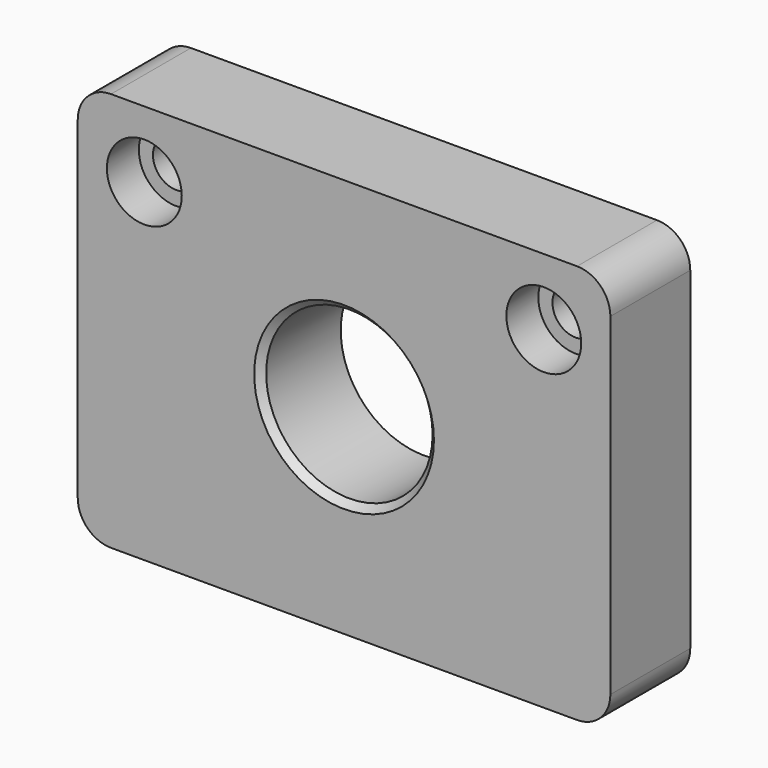
from build123d import *

# Parameters (mm, degrees)
F0_W           = 80
F0_H           = 60
F0_R           = 12.5
F1_DEPTH       = 15
F3_D           = 7
F3_CBORE_D     = 11.25
F3_CBORE_DEPTH = 6
F4_R           = 5
F5_SIZE        = 1


with BuildPart() as f1:
    # F0 (on Front) → F1 (new body)
    with BuildSketch(Plane.XZ):
        Rectangle(F0_W, F0_H)
        Circle(F0_R, mode=Mode.SUBTRACT)
    extrude(amount=F1_DEPTH)

    # F3 (through all)
    with Locations(Plane.XZ.offset(15)):
        with Locations((-30, 20), (30, 20)):
            CounterBoreHole(F3_D / 2, F3_CBORE_D / 2, F3_CBORE_DEPTH)

    # F4
    f4_edges = [f1.edges().sort_by_distance(p)[0] for p in [
        (40, -7.5, 30),
        (40, -7.5, -30),
        (-40, -7.5, 30),
        (-40, -7.5, -30),
    ]]
    fillet(f4_edges, radius=F4_R)

    # F5
    f5_edges = [f1.edges().sort_by_distance(p)[0] for p in [
        (-12.5, -15, 0),
    ]]
    chamfer(f5_edges, length=F5_SIZE)


solid = f1.part
